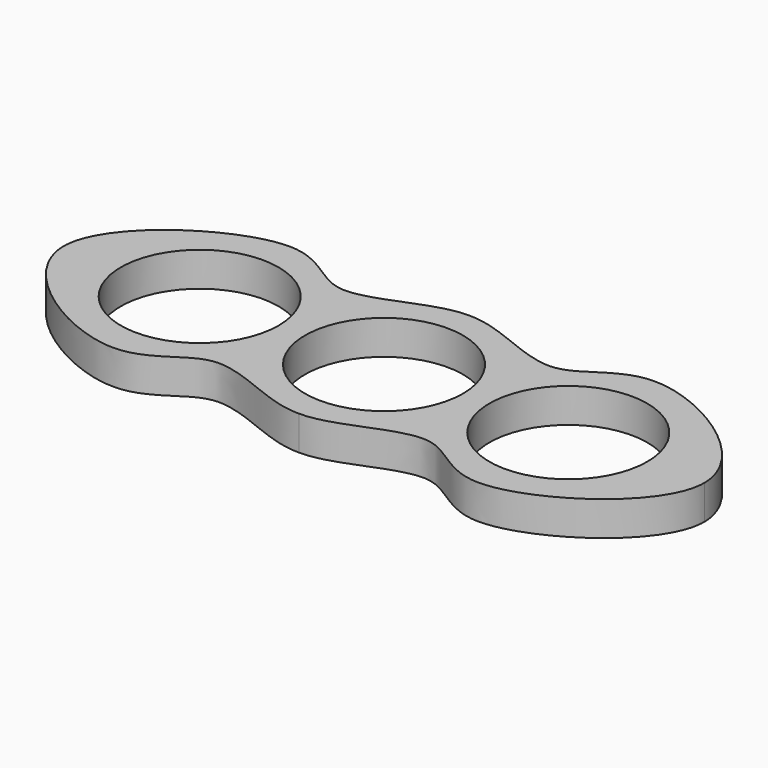
from build123d import *

# Parameters (mm, degrees)
F0_R     = 10.95
F1_DEPTH = 4.7625


with BuildPart() as f1:
    # F0 (on Top) → F1 (new body)
    with BuildSketch(Plane.XY):
        with BuildLine():
            add(Edge.make_bspline(
                [(-15.1285366372, 26.4688785569), (-10.3162465445, 26.5345924993), (0.4552537202, 18.5688464564), (8.5664581075, 32.4858505018), (29.3376688198, 19.2019392716), (29.3214633628, 11.7088785569)],
                knots=[0, 0, 0, 0, 0.3185350392, 0.5938778395, 1, 1, 1, 1], degree=3))
            add(Edge.make_bspline(
                [(-15.1285366372, 26.4688785569), (-19.94082673, 26.5345924993), (-30.7123269946, 18.5688464564), (-38.823531382, 32.4858505018), (-59.5947420943, 19.2019392716), (-59.5785366372, 11.7088785569)],
                knots=[0, 0, 0, 0, 0.3185350392, 0.5938778395, 1, 1, 1, 1], degree=3))
            add(Edge.make_bspline(
                [(-15.1285366372, -3.0511214431), (-19.94082673, -3.1168353855), (-30.7123269946, 4.8489106573), (-38.823531382, -9.0680933881), (-59.5947420943, 4.2158178421), (-59.5785366372, 11.7088785569)],
                knots=[0, 0, 0, 0, 0.3185350392, 0.5938778395, 1, 1, 1, 1], degree=3))
            add(Edge.make_bspline(
                [(-15.1285366372, -3.0511214431), (-10.3162465445, -3.1168353855), (0.4552537202, 4.8489106573), (8.5664581075, -9.0680933881), (29.3376688198, 4.2158178421), (29.3214633628, 11.7088785569)],
                knots=[0, 0, 0, 0, 0.3185350392, 0.5938778395, 1, 1, 1, 1], degree=3))
        make_face()
        with Locations((-40.7001013013, 11.7088785569)):
            Circle(F0_R, mode=Mode.SUBTRACT)
        with Locations((-15.1285366372, 11.7088785569)):
            Circle(F0_R, mode=Mode.SUBTRACT)
        with Locations((10.4430280269, 11.7088785569)):
            Circle(F0_R, mode=Mode.SUBTRACT)
    extrude(amount=F1_DEPTH)


solid = f1.part
